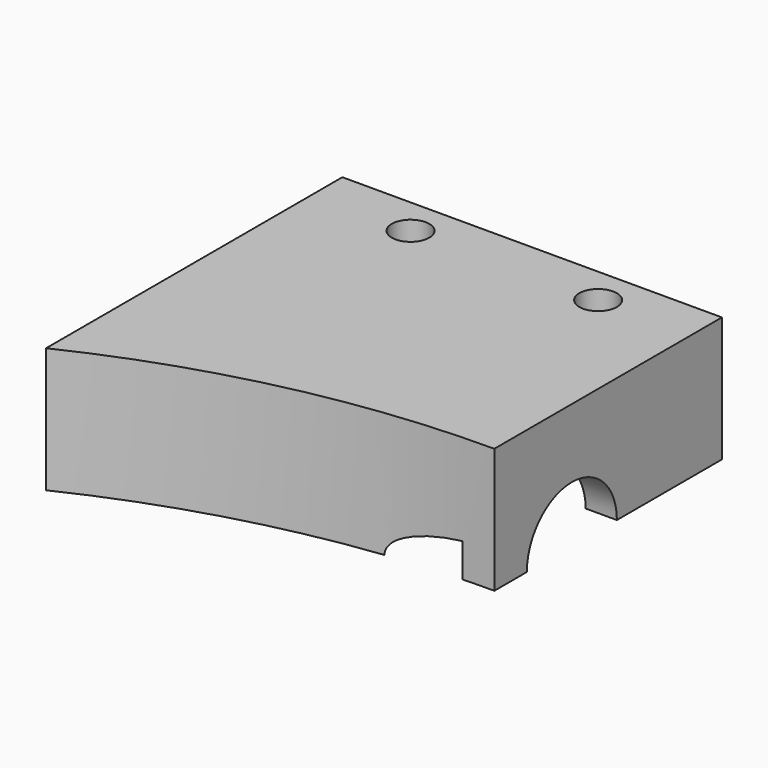
from build123d import *

# Parameters (mm, degrees)
SKETCH_R        = 1.5
PAD_DEPTH       = 10
SKETCH001_R     = 4.5
POCKET_DEPTH    = 30.352032
SKETCH002_R     = 8.25
POCKET001_DEPTH = 25


with BuildPart() as part:
    # Sketch → Pad (new body)
    with BuildSketch(Plane.XY):
        with BuildLine():
            ThreePointArc((0, 70.5), (-15.559169, 68.761634), (-30.351032, 63.632263))
            Line((-30.351032, 63.632263), (-30.351032, 93.25))
            Line((-30.351032, 93.25), (0, 93.25))
            Line((0, 93.25), (0, 70.5))
        make_face()
        with Locations((-7.5, 90.25)):
            Circle(SKETCH_R, mode=Mode.SUBTRACT)
        with Locations((-22.5, 90.25)):
            Circle(SKETCH_R, mode=Mode.SUBTRACT)
    extrude(amount=PAD_DEPTH)

    # Sketch001 (on Face4 of Pad) → Pocket (cut, through all)
    with BuildSketch(Plane.YZ):
        with Locations((78.25, 0)):
            Circle(SKETCH001_R)
    extrude(amount=-POCKET_DEPTH, mode=Mode.SUBTRACT)

    # Sketch002 (on Face2 of Pocket) → Pocket001 (cut)
    with BuildSketch(Plane.YZ.offset(-2.5)):
        with Locations((78.25, 0)):
            Circle(SKETCH002_R)
    extrude(amount=-POCKET001_DEPTH, mode=Mode.SUBTRACT)


solid = part.part
